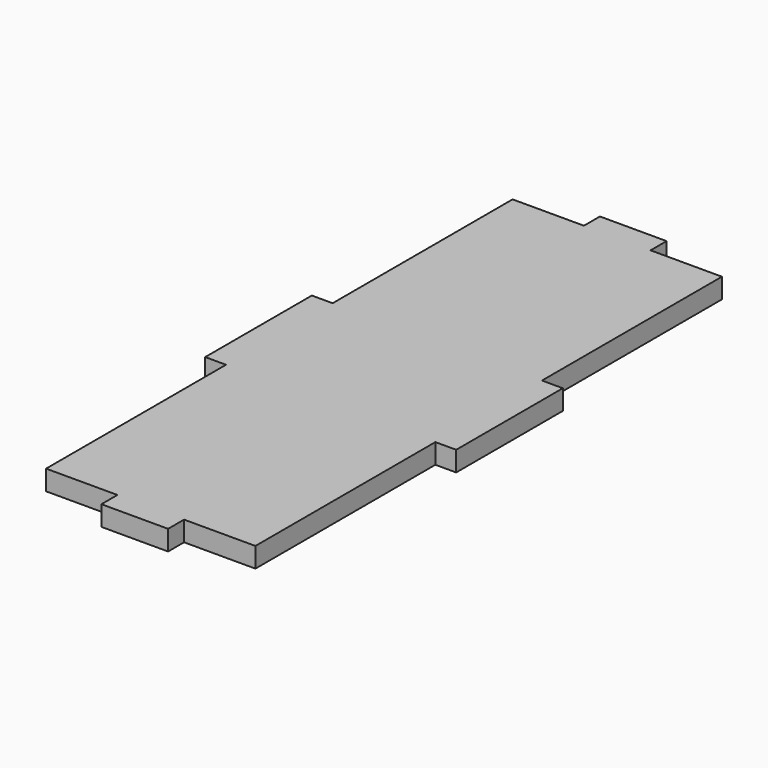
from build123d import *

# Parameters (mm, degrees)
F1_DEPTH = 6.096


with BuildPart() as f1:
    # F0 (on Top) → F1 (new body)
    with BuildSketch(Plane.XY):
        Polygon((0, 102.799865), (-6.35, 102.799865), (-6.35, 62.159865), (0, 62.159865), (0, -6.420135), (21.752896, -6.420135), (21.752896, -12.516135), (42.072896, -12.516135), (42.072896, -6.420135), (63.825792, -6.420135), (63.825792, 62.159865), (70.175792, 62.159865), (70.175792, 102.799865), (63.824063, 102.799865), (63.824063, 171.379865), (42.072896, 171.379865), (42.072896, 177.475865), (21.752896, 177.475865), (21.752896, 171.379865), (0, 171.379865), align=None)
    extrude(amount=F1_DEPTH)


solid = f1.part
